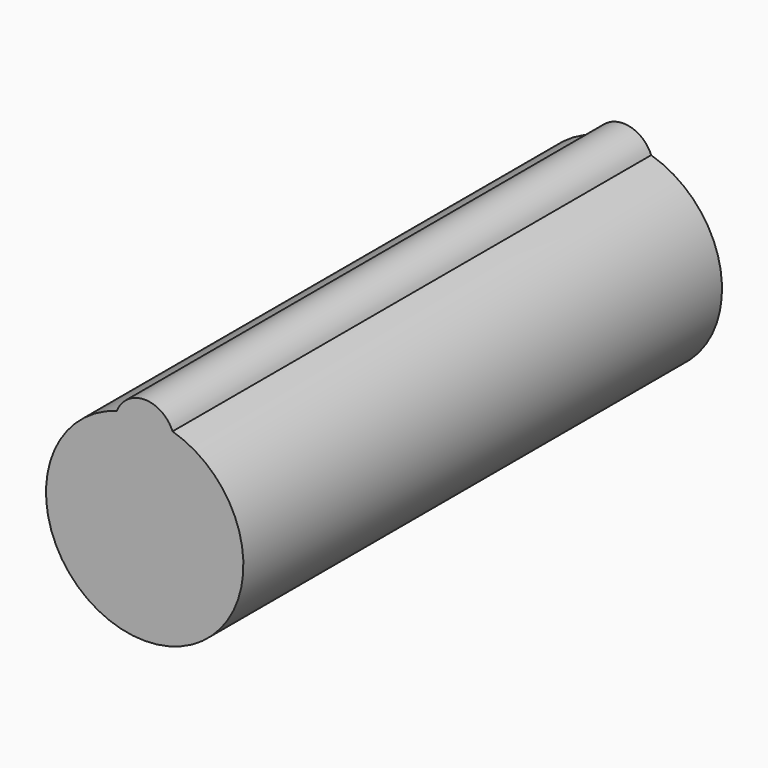
from build123d import *

# Parameters (mm, degrees)
CYLINDER005_R     = 1.65
CYLINDER005_DEPTH = 10
CYLINDER006_R     = 0.5
CYLINDER006_DEPTH = 10


with BuildPart() as cylinder005:
    # Cylinder005 → Cylinder005 (new body)
    with BuildSketch(Plane(origin=(0, 0, 0), x_dir=(1, 0, 0), z_dir=(0, 1, 0))):
        Circle(CYLINDER005_R)
    extrude(amount=CYLINDER005_DEPTH)


with BuildPart() as m3:
    # Cylinder006 → Cylinder006 (new body)
    with BuildSketch(Plane(origin=(0, 0, 1.4), x_dir=(1, 0, 0), z_dir=(0, 1, 0))):
        Circle(CYLINDER006_R)
    extrude(amount=CYLINDER006_DEPTH)

    # Fusion001005: union Cylinder005
    add(cylinder005.part)


solid = m3.part
